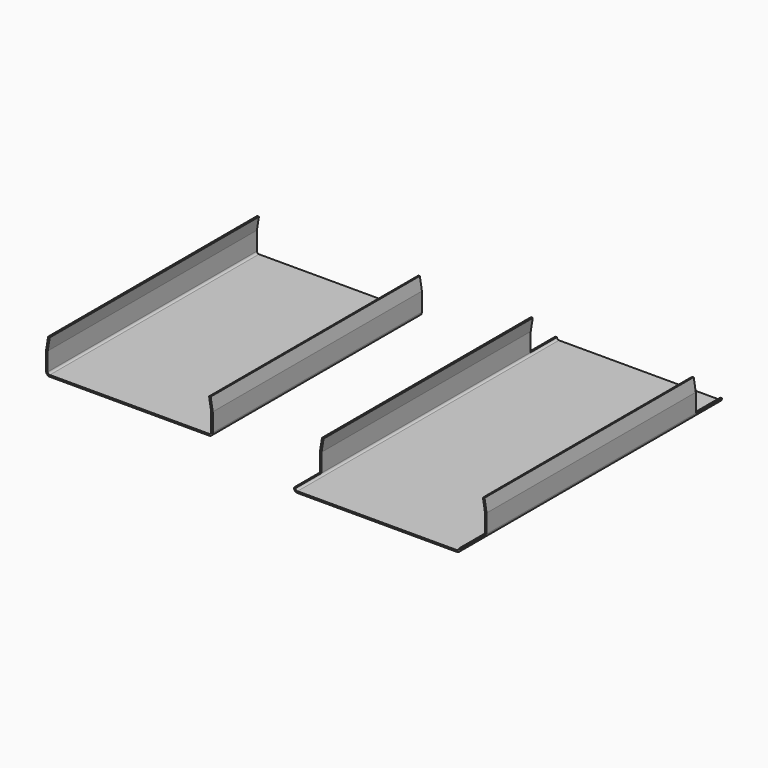
from build123d import *

# Parameters (mm, degrees)
F1_DEPTH  = 254
F3_DEPTH  = 1.27
F5_DEPTH  = 1.27
F6_W      = 25.4
F6_H      = 24.2419116952
F7_DEPTH  = 129.541
F9_W      = 25.4
F9_H      = 3.5516537219
F9_W_2    = 25.5614472866
F9_H_2    = 3.244402954
F10_DEPTH = 342.393


with BuildPart() as f1:
    # F0 (on Front) → F1 (new body)
    with BuildSketch(Plane.XZ):
        with BuildLine():
            Line((0, 1.5875), (0, 15.875))
            Line((0, 15.875), (1.5875, 25.6253238767))
            Line((1.5875, 25.6253238767), (0.3340056193, 25.8294116952))
            Line((0.3340056193, 25.8294116952), (-1.27, 15.9777113559))
            Line((-1.27, 15.9777113559), (-1.27, 1.5875))
            ThreePointArc((-1.27, 1.5875), (-0.4330576272, -0.4330576272), (1.5875, -1.27))
            Line((1.5875, -1.27), (63.5, -1.27))
            Line((63.5, -1.27), (125.4125, -1.27))
            ThreePointArc((125.4125, -1.27), (127.4330576272, -0.4330576272), (128.27, 1.5875))
            Line((128.27, 1.5875), (128.27, 15.9777113559))
            Line((128.27, 15.9777113559), (126.6659943807, 25.8294116952))
            Line((126.6659943807, 25.8294116952), (125.4125, 25.6253238767))
            Line((125.4125, 25.6253238767), (127, 15.875))
            Line((127, 15.875), (127, 1.5875))
            ThreePointArc((127, 1.5875), (126.5350320151, 0.4649679849), (125.4125, 0))
            Line((125.4125, 0), (63.5, 0))
            Line((63.5, 0), (1.5875, 0))
            ThreePointArc((1.5875, 0), (0.4649679849, 0.4649679849), (0, 1.5875))
        make_face()
    extrude(amount=F1_DEPTH)

    # F2 (on face) → F3 (cut, through all)
    with BuildSketch(Plane(origin=(-3.7714366405, 0, 0.6140468504), x_dir=(0, -1, 0), z_dir=(-0.9870034493, 0, 0.1606990697))):
        with BuildLine():
            ThreePointArc((250.825, 25.5473928299), (253.0700640303, 24.6174568602), (254, 22.3723928299))
            Line((254, 22.3723928299), (254, 25.5473928299))
            Line((254, 25.5473928299), (250.825, 25.5473928299))
        make_face()
        with BuildLine():
            ThreePointArc((0, 22.3723928299), (0.9299359697, 24.6174568602), (3.175, 25.5473928299))
            Line((3.175, 25.5473928299), (0, 25.5473928299))
            Line((0, 25.5473928299), (0, 22.3723928299))
        make_face()
    extrude(amount=-F3_DEPTH, mode=Mode.SUBTRACT)

    # F4 (on face) → F5 (cut, through all)
    with BuildSketch(Plane(origin=(127.4917643851, 0, 20.7575849295), x_dir=(0, 1, 0), z_dir=(0.9870034493, 0, 0.1606990697))):
        with BuildLine():
            ThreePointArc((-254, 1.9636109837), (-253.0700640303, 4.208675014), (-250.825, 5.1386109837))
            Line((-250.825, 5.1386109837), (-254, 5.1386109837))
            Line((-254, 5.1386109837), (-254, 1.9636109837))
        make_face()
        with BuildLine():
            ThreePointArc((-3.175, 5.1386109837), (-0.9299359697, 4.208675014), (0, 1.9636109837))
            Line((0, 1.9636109837), (0, 5.1386109837))
            Line((0, 5.1386109837), (-3.175, 5.1386109837))
        make_face()
    extrude(amount=-F5_DEPTH, mode=Mode.SUBTRACT)

    # F6 (on face) → F7 (cut, through all)
    with BuildSketch(Plane(origin=(-1.27, 0, 0), x_dir=(0, -1, 0), z_dir=(-1, 0, 0))):
        with Locations((12.7, 13.7084558476)):
            Rectangle(F6_W, F6_H)
        with Locations((241.3, 13.7084558476)):
            Rectangle(F6_W, F6_H)
    extrude(amount=-F7_DEPTH, mode=Mode.SUBTRACT)


with BuildPart() as f8_1:
    # F8: copy of F1
    add(f1.part.moved(Location((-212.852, 0, 0))))

    # F9 (on face) → F10 (cut, through all)
    with BuildSketch(Plane(origin=(-214.122, 0, 0), x_dir=(0, -1, 0), z_dir=(-1, 0, 0))):
        with Locations((12.7, -0.188326861)):
            Rectangle(F9_W, F9_H)
        with Locations((241.3807236433, -0.034701477)):
            Rectangle(F9_W_2, F9_H_2)
    extrude(amount=-F10_DEPTH, mode=Mode.SUBTRACT)


solid = Compound([f1.part, f8_1.part])
